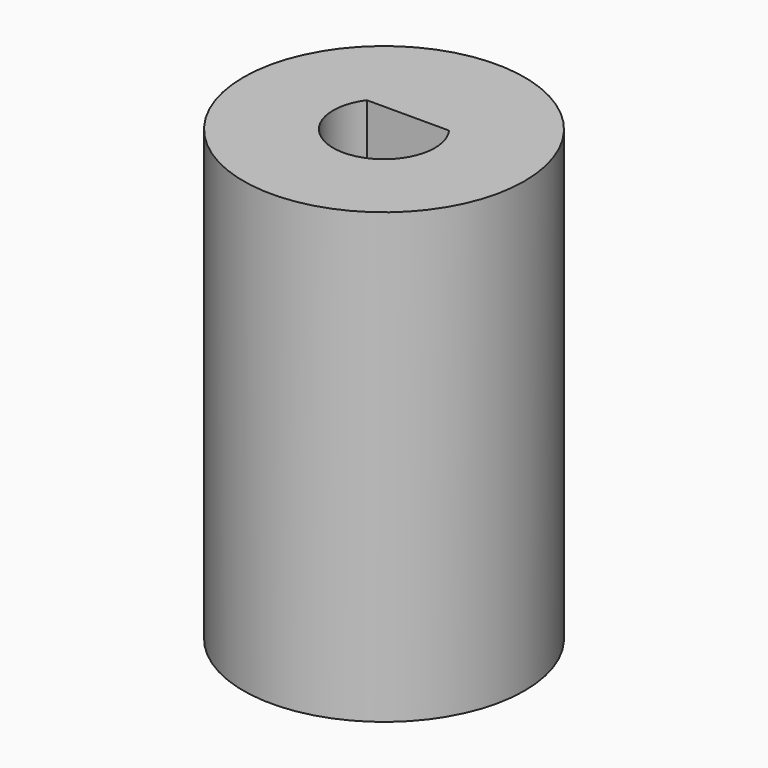
from build123d import *

# Parameters (mm, degrees)
F0_R     = 4.7
F1_DEPTH = 7.5


with BuildPart() as f1:
    # F0 (on Top) → F1 (new body, symmetric)
    with BuildSketch(Plane.XY):
        Circle(F0_R)
        with BuildLine():
            ThreePointArc((1.3747727085, 1), (1.61664987, 0.5257786585), (1.7, 0))
            ThreePointArc((1.7, 0), (-0.5257786585, -1.61664987), (-1.3747727085, 1))
            ThreePointArc((-1.3747727085, 1), (0, 1.7), (1.3747727085, 1))
        make_face(mode=Mode.SUBTRACT)
        with BuildLine():
            Line((-1.3747727085, 1), (1.3747727085, 1))
            ThreePointArc((1.3747727085, 1), (0, 1.7), (-1.3747727085, 1))
        make_face()
    extrude(amount=F1_DEPTH, both=True)


solid = f1.part
